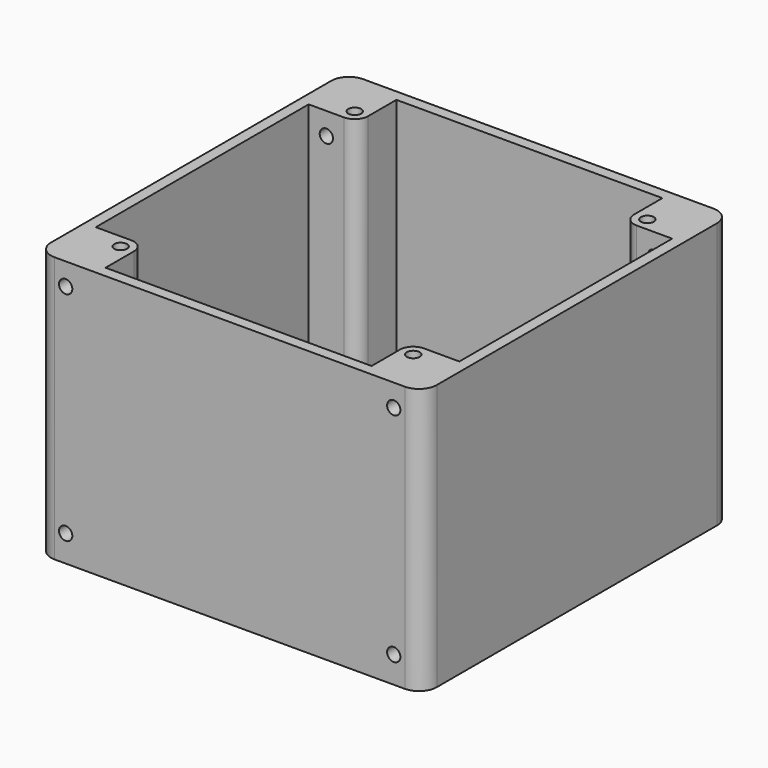
from build123d import *

# Parameters (mm, degrees)
PAD_DEPTH            = 60
SKETCH001_R          = 1.45
POCKET_DEPTH         = 59
SKETCH002_R          = 1.5
POCKET001_DEPTH      = 13.501
POCKET001_DEPTH_BACK = -73.501
SKETCH003_R          = 7.75
POCKET002_DEPTH      = 333.774629
POLARPATTERN_COUNT   = 4
CHAMFER_SIZE         = 2


with BuildPart() as part:
    # Sketch → Pad (new body)
    with BuildSketch(Plane.XY):
        with BuildLine():
            Line((-39.5, 43.5), (39.5, 43.5))
            ThreePointArc((43.5, 39.5), (42.328427, 42.328427), (39.5, 43.5))
            Line((43.5, 39.5), (43.5, -39.5))
            ThreePointArc((39.5, -43.5), (42.328427, -42.328427), (43.5, -39.5))
            Line((39.5, -43.5), (-39.5, -43.5))
            ThreePointArc((-43.5, -39.5), (-42.328427, -42.328427), (-39.5, -43.5))
            Line((-43.5, -39.5), (-43.5, 39.5))
            ThreePointArc((-39.5, 43.5), (-42.328427, 42.328427), (-43.5, 39.5))
        make_face()
    extrude(amount=PAD_DEPTH)

    # Sketch001 (on Face10 of Pad) → Pocket (cut)
    with BuildSketch(Plane.XY.offset(60)):
        with Locations((-33, 33)):
            Circle(SKETCH001_R)
        with Locations((33, 33)):
            Circle(SKETCH001_R)
        with Locations((33, -33)):
            Circle(SKETCH001_R)
        with Locations((-33, -33)):
            Circle(SKETCH001_R)
        with BuildLine():
            Line((-30, 33), (-30, 41))
            Line((-30, 41), (30, 41))
            Line((30, 41), (30, 33))
            ThreePointArc((30, 33), (30.87868, 30.87868), (33, 30))
            Line((33, 30), (41, 30))
            Line((41, 30), (41, -30))
            Line((41, -30), (33, -30))
            ThreePointArc((33, -30), (30.87868, -30.87868), (30, -33))
            Line((30, -33), (30, -41))
            Line((30, -41), (-30, -41))
            Line((-30, -41), (-30, -33))
            ThreePointArc((-30, -33), (-30.87868, -30.87868), (-33, -30))
            Line((-33, -30), (-41, -30))
            Line((-41, -30), (-41, 30))
            Line((-41, 30), (-33, 30))
            ThreePointArc((-33, 30), (-30.87868, 30.87868), (-30, 33))
        make_face()
    extrude(amount=-POCKET_DEPTH, mode=Mode.SUBTRACT)

    # Sketch002 (on Face26 of Pocket) → Pocket001 (cut, two sides)
    with BuildSketch(Plane.XZ.offset(-30)) as pocket001_sk:
        with Locations((-37, 55)):
            Circle(SKETCH002_R)
        with Locations((37, 55)):
            Circle(SKETCH002_R)
        with Locations((-37, 6)):
            Circle(SKETCH002_R)
        with Locations((37, 6)):
            Circle(SKETCH002_R)
    extrude(amount=-POCKET001_DEPTH, mode=Mode.SUBTRACT)
    extrude(pocket001_sk.sketch, amount=-POCKET001_DEPTH_BACK, mode=Mode.SUBTRACT)

    # Sketch003 → Pocket002 (cut, through all)
    with BuildSketch(Plane.XY):
        with Locations((20, 20)):
            Circle(SKETCH003_R)
    pocket002 = extrude(amount=POCKET002_DEPTH, mode=Mode.SUBTRACT)

    # PolarPattern: Pocket002 ×4 about axis
    polarpattern_axis = Axis((0, 0, 0), (0, 0, 1))
    for i in range(1, POLARPATTERN_COUNT):
        add(pocket002.rotate(polarpattern_axis, i * 360 / POLARPATTERN_COUNT), mode=Mode.SUBTRACT)

    # Chamfer
    chamfer_edges = [part.edges().sort_by_distance(p)[0] for p in [
        (-37, 30, 1),
        (0, 41, 1),
        (30, 37, 1),
        (-41, 0, 1),
        (-30, -37, 1),
        (0, -41, 1),
        (41, 0, 1),
        (37, -30, 1),
    ]]
    chamfer(chamfer_edges, length=CHAMFER_SIZE)


solid = part.part
